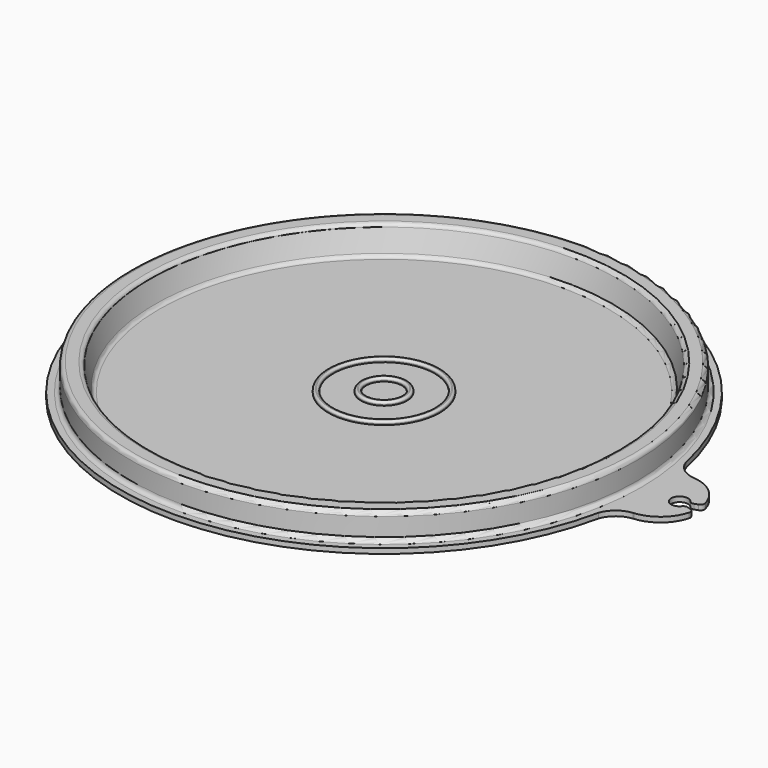
from build123d import *

# Parameters (mm, degrees)
F0_R     = 54
F1_DEPTH = 1.2
F4_R     = 1
F6_DEPTH = 1.2
F7_R     = 1
F8_R     = 13.2
F8_R_2   = 12
F8_R_3   = 5.45
F8_R_4   = 4.25
F9_DEPTH = 0.8
F10_R    = 0.5


with BuildPart() as f1:
    # F0 (on Top) → F1 (new body)
    with BuildSketch(Plane.XY):
        Circle(F0_R)
    extrude(amount=F1_DEPTH)

    # F2 (on Front) → F3 (revolve)
    with BuildSketch(Plane.XZ):
        with BuildLine():
            Line((54, 1.2), (54, 0))
            Line((54, 0), (54.232673012, 0))
            ThreePointArc((54.232673012, 0), (54.841434441, 0.2066466597), (55.1985988383, 0.7411809549))
            Line((55.1985988383, 0.7411809549), (56.5887804932, 5.9294095226))
            ThreePointArc((56.5887804932, 5.9294095226), (56.7673626918, 6.1966766701), (57.0717434063, 6.3))
            Line((57.0717434063, 6.3), (58.2083955405, 6.3))
            ThreePointArc((58.2083955405, 6.3), (58.5828734009, 6.1313100241), (58.7046686163, 5.7390653283))
            Line((58.7046686163, 5.7390653283), (58.1377482347, 1.1218693434))
            ThreePointArc((58.1377482347, 1.1218693434), (58.3813386656, 0.3373799518), (59.1302943864, 0))
            Line((59.1302943864, 0), (62.5, 0))
            Line((62.5, 0), (62.5, 1.2))
            Line((62.5, 1.2), (60.9735427337, 1.2))
            ThreePointArc((60.9735427337, 1.2), (60.2664359525, 1.4928932188), (59.9735427337, 2.2))
            Line((59.9735427337, 2.2), (59.9735427337, 6.5))
            ThreePointArc((59.9735427337, 6.5), (59.6806495149, 7.2071067812), (58.9735427337, 7.5))
            Line((58.9735427337, 7.5), (56.4554069003, 7.5))
            ThreePointArc((56.4554069003, 7.5), (55.8466454713, 7.2933533403), (55.489481074, 6.7588190451))
            Line((55.489481074, 6.7588190451), (54, 1.2))
        make_face()
    revolve(axis=Axis((0, 0, 2.6335071307), (0, 0, 1)))

    # F4
    f4_edges = [f1.edges().sort_by_distance(p)[0] for p in [
        (-54, 0, 1.2),
    ]]
    fillet(f4_edges, radius=F4_R)

    # F5 (on Top) → F6 (join)
    with BuildSketch(Plane.XY):
        with BuildLine():
            ThreePointArc((71.8946052337, -0.6406801138), (68, 0), (71.8946052337, 0.6406801138))
            Line((71.8946052337, 0.6406801138), (74.3774315682, 1.4802732018))
            ThreePointArc((74.3774315682, 1.4802732018), (71.6242011285, 6.5950102758), (66.3199148095, 8.9625743905))
            ThreePointArc((66.3199148095, 8.9625743905), (66.2492748373, 8.9680508892), (66.1787054603, 8.9743723401))
            ThreePointArc((66.1787054603, 8.9743723401), (64.0220234551, 8.8778142205), (61.9503816794, 8.2704419337))
            ThreePointArc((61.9503816794, 8.2704419337), (62.3624440467, 4.14434223), (62.5, 0))
            ThreePointArc((62.5, 0), (62.3624440467, -4.14434223), (61.9503816794, -8.2704419337))
            ThreePointArc((61.9503816794, -8.2704419337), (64.0220234551, -8.8778142205), (66.1787054603, -8.9743723401))
            ThreePointArc((66.1787054603, -8.9743723401), (66.2492748373, -8.9680508892), (66.3199148095, -8.9625743905))
            ThreePointArc((66.3199148095, -8.9625743905), (71.6242011285, -6.5950102758), (74.3774315682, -1.4802732018))
            Line((74.3774315682, -1.4802732018), (71.8946052337, -0.6406801138))
        make_face()
        with BuildLine():
            ThreePointArc((61.1479464284, -12.9297582183), (63.0828669429, -10.2137936025), (66.1787054603, -8.9743723401))
            ThreePointArc((66.1787054603, -8.9743723401), (64.0220234551, -8.8778142205), (61.9503816794, -8.2704419337))
            ThreePointArc((61.9503816794, -8.2704419337), (61.5932374762, -10.6076904745), (61.1479464284, -12.9297582183))
        make_face()
        with BuildLine():
            ThreePointArc((71.8946052337, -0.6406801138), (68, 0), (71.8946052337, 0.6406801138))
            Line((71.8946052337, 0.6406801138), (74.3774315682, 1.4802732018))
            ThreePointArc((74.3774315682, 1.4802732018), (71.6242011285, 6.5950102758), (66.3199148095, 8.9625743905))
            ThreePointArc((66.3199148095, 8.9625743905), (66.2492748373, 8.9680508892), (66.1787054603, 8.9743723401))
            ThreePointArc((66.1787054603, 8.9743723401), (64.0220234551, 8.8778142205), (61.9503816794, 8.2704419337))
            ThreePointArc((61.9503816794, 8.2704419337), (62.3624440467, 4.14434223), (62.5, 0))
            ThreePointArc((62.5, 0), (62.3624440467, -4.14434223), (61.9503816794, -8.2704419337))
            ThreePointArc((61.9503816794, -8.2704419337), (64.0220234551, -8.8778142205), (66.1787054603, -8.9743723401))
            ThreePointArc((66.1787054603, -8.9743723401), (66.2492748373, -8.9680508892), (66.3199148095, -8.9625743905))
            ThreePointArc((66.3199148095, -8.9625743905), (71.6242011285, -6.5950102758), (74.3774315682, -1.4802732018))
            Line((74.3774315682, -1.4802732018), (71.8946052337, -0.6406801138))
        make_face()
        with BuildLine():
            ThreePointArc((61.9503816794, 8.2704419337), (64.0220234551, 8.8778142205), (66.1787054603, 8.9743723401))
            ThreePointArc((66.1787054603, 8.9743723401), (63.0828669429, 10.2137936025), (61.1479464284, 12.9297582183))
            ThreePointArc((61.1479464284, 12.9297582183), (61.5932374762, 10.6076904745), (61.9503816794, 8.2704419337))
        make_face()
        with BuildLine():
            ThreePointArc((71.8946052337, -0.6406801138), (68, 0), (71.8946052337, 0.6406801138))
            Line((71.8946052337, 0.6406801138), (74.3774315682, 1.4802732018))
            ThreePointArc((74.3774315682, 1.4802732018), (71.6242011285, 6.5950102758), (66.3199148095, 8.9625743905))
            ThreePointArc((66.3199148095, 8.9625743905), (66.2492748373, 8.9680508892), (66.1787054603, 8.9743723401))
            ThreePointArc((66.1787054603, 8.9743723401), (64.0220234551, 8.8778142205), (61.9503816794, 8.2704419337))
            ThreePointArc((61.9503816794, 8.2704419337), (62.3624440467, 4.14434223), (62.5, 0))
            ThreePointArc((62.5, 0), (62.3624440467, -4.14434223), (61.9503816794, -8.2704419337))
            ThreePointArc((61.9503816794, -8.2704419337), (64.0220234551, -8.8778142205), (66.1787054603, -8.9743723401))
            ThreePointArc((66.1787054603, -8.9743723401), (66.2492748373, -8.9680508892), (66.3199148095, -8.9625743905))
            ThreePointArc((66.3199148095, -8.9625743905), (71.6242011285, -6.5950102758), (74.3774315682, -1.4802732018))
            Line((74.3774315682, -1.4802732018), (71.8946052337, -0.6406801138))
        make_face()
    extrude(amount=F6_DEPTH)

    # F7
    f7_edges = [f1.edges().sort_by_distance(p)[0] for p in [
        (74.377432, 1.480273, 0.6),
        (74.377432, -1.480273, 0.6),
        (71.894605, 0.64068, 0.6),
        (71.894605, -0.64068, 0.6),
    ]]
    fillet(f7_edges, radius=F7_R)

    # F8 (on face) → F9 (join)
    with BuildSketch(Plane.XY.offset(1.2)):
        Circle(F8_R)
        Circle(F8_R_2, mode=Mode.SUBTRACT)
        Circle(F8_R_3)
        Circle(F8_R_4, mode=Mode.SUBTRACT)
    extrude(amount=F9_DEPTH)

    # F10
    f10_edges = [f1.edges().sort_by_distance(p)[0] for p in [
        (-13.2, 0, 2),
        (-5.45, 0, 2),
        (-12, 0, 2),
        (-4.25, 0, 2),
    ]]
    fillet(f10_edges, radius=F10_R)


solid = f1.part
